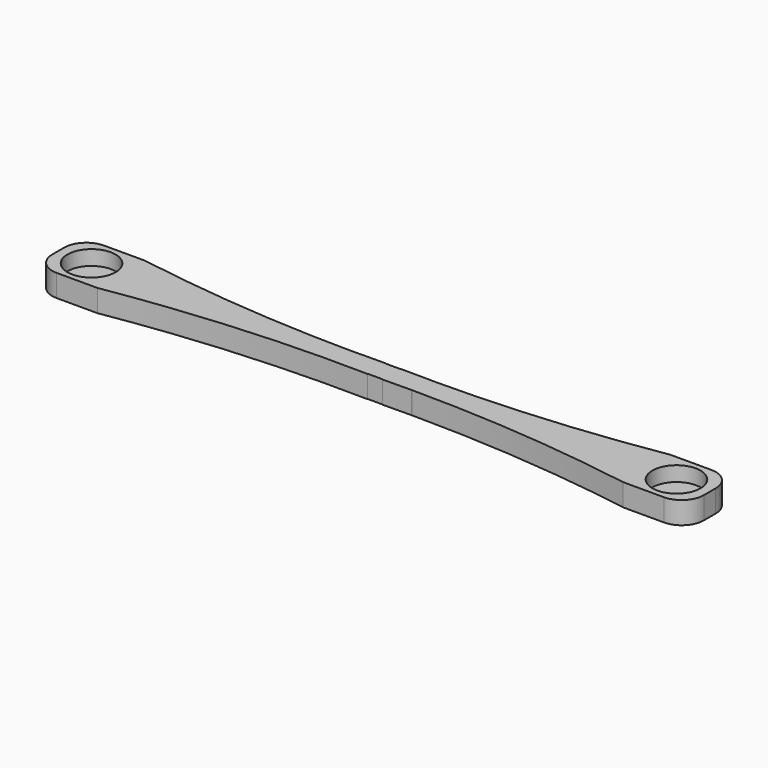
from build123d import *

# Parameters (mm, degrees)
BOX081_W                          = 90
BOX081_H                          = 9
BOX081_DEPTH                      = 4
BOX080_W                          = 10
BOX080_H                          = 3
BOX080_DEPTH                      = 4
BOX079_W                          = 40
BOX079_H                          = 10
BOX079_DEPTH                      = 10
CYLINDER143_R                     = 3.25
CYLINDER143_DEPTH                 = 3.5
CYLINDER144_R                     = 0.6
CYLINDER144_DEPTH                 = 9.5
CYLINDER142_R                     = 0.6
CYLINDER142_DEPTH                 = 9.5
CYLINDER141_R                     = 3.25
CYLINDER141_DEPTH                 = 3.5
PAD014_DEPTH                      = 4
FILLET078_R                       = 3
PART_MIRRORING003_PLACEMENT_ANGLE = 180
BOX078_W                          = 40
BOX078_H                          = 10
BOX078_DEPTH                      = 10
CYLINDER137_R                     = 3.25
CYLINDER137_DEPTH                 = 3.5
CYLINDER140_R                     = 0.6
CYLINDER140_DEPTH                 = 9.5
CYLINDER138_R                     = 0.6
CYLINDER138_DEPTH                 = 9.5
CYLINDER139_R                     = 3.25
CYLINDER139_DEPTH                 = 3.5
PAD013_DEPTH                      = 4
FILLET077_R                       = 3


with BuildPart() as obj1:
    # Box081 → Box081 (new body)
    with BuildSketch(Plane(origin=(-63, -38.5, -41), x_dir=(1, 0, 0), z_dir=(0, 0, 1))):
        with Locations((45, 4.5)):
            Rectangle(BOX081_W, BOX081_H)
    extrude(amount=BOX081_DEPTH)


with BuildPart() as obj2:
    # Box080 → Box080 (new body)
    with BuildSketch(Plane(origin=(-23, -35.5, -38), x_dir=(1, 0, 0), z_dir=(0, 0, 1))):
        with Locations((5, 1.5)):
            Rectangle(BOX080_W, BOX080_H)
    extrude(amount=BOX080_DEPTH)


with BuildPart() as obj3:
    # Box079 → Box079 (new body)
    with BuildSketch(Plane(origin=(-14, -72, -42), x_dir=(1, 0, 0), z_dir=(0, 0, 1))):
        with Locations((20, 5)):
            Rectangle(BOX079_W, BOX079_H)
    extrude(amount=BOX079_DEPTH)


with BuildPart() as zylinder143:
    # Cylinder143 → Cylinder143 (new body)
    with BuildSketch(Plane(origin=(-52.5, 23, -36), x_dir=(1, 0, 0), z_dir=(0, 0, 1))):
        Circle(CYLINDER143_R)
    extrude(amount=CYLINDER143_DEPTH)


with BuildPart() as zylinder144:
    # Cylinder144 → Cylinder144 (new body)
    with BuildSketch(Plane(origin=(16.5, 23, -39), x_dir=(1, 0, 0), z_dir=(0, 0, 1))):
        Circle(CYLINDER144_R)
    extrude(amount=CYLINDER144_DEPTH)


with BuildPart() as zylinder142:
    # Cylinder142 → Cylinder142 (new body)
    with BuildSketch(Plane(origin=(-52.5, 23, -39), x_dir=(1, 0, 0), z_dir=(0, 0, 1))):
        Circle(CYLINDER142_R)
    extrude(amount=CYLINDER142_DEPTH)


with BuildPart() as fusion089:
    # Cylinder141 → Cylinder141 (new body)
    with BuildSketch(Plane(origin=(16.5, 23, -36), x_dir=(1, 0, 0), z_dir=(0, 0, 1))):
        Circle(CYLINDER141_R)
    extrude(amount=CYLINDER141_DEPTH)

    # Fusion089: union Zylinder143, Zylinder144, Zylinder142
    add(zylinder143.part)
    add(zylinder144.part)
    add(zylinder142.part)


with BuildPart() as cut068:
    # Sketch014 → Pad014 (new body)
    with BuildSketch(Plane.XY):
        with BuildLine():
            add(Edge.make_bspline(
                [(-48.5, 19), (-18, 24), (12.5, 19)],
                knots=[0, 0, 0, 1, 1, 1], degree=2))
            Line((-48.5, 19), (-57, 19))
            Line((-57, 19), (-57, 27))
            Line((-57, 27), (-48.5, 27))
            add(Edge.make_bspline(
                [(-48.5, 27), (-18, 22), (12.5, 27)],
                knots=[0, 0, 0, 1, 1, 1], degree=2))
            Line((12.5, 27), (21, 27))
            Line((21, 27), (21, 19))
            Line((21, 19), (12.5, 19))
        make_face()
    extrude(amount=PAD014_DEPTH)


with BuildPart() as cut068_1:
    # Body005 placement: moved
    add(cut068.part.moved(Location((0, 0, -38))))

    # Cut069: cut Fusion089
    add(fusion089.part, mode=Mode.SUBTRACT)

    # Fillet078
    fillet078_edges = [cut068_1.edges().sort_by_distance(p)[0] for p in [
        (-57, 19, -36),
        (21, 19, -36),
        (-57, 27, -36),
        (21, 27, -36),
    ]]
    fillet(fillet078_edges, radius=FILLET078_R)


with BuildPart() as cut068_2:
    # Fillet078 placement: moved
    add(cut068_1.part.moved(Location((0, -90, 0))))

    # Cut068: cut obj3
    add(obj3.part, mode=Mode.SUBTRACT)


with BuildPart() as cut068_3:
    # Cut068 placement: moved
    add(cut068_2.part.moved(Location((-5, 35, 0))))


with BuildPart() as part_mirroring003:
    # Part__Mirroring003: instance of Cut068
    add(cut068_3.part.mirror(Plane(origin=(-40.5, -8e-06, -36), x_dir=(1, 0, 0), z_dir=(0, 1, 0))))


with BuildPart() as part_mirroring003_1:
    # Part__Mirroring003 placement: moved
    add(part_mirroring003.part.moved(Location((-36, 9, 0))).rotate(Axis((-36, 9, 0), (0, 0, 1)), PART_MIRRORING003_PLACEMENT_ANGLE))


with BuildPart() as obj4:
    # Box078 → Box078 (new body)
    with BuildSketch(Plane(origin=(-14, -72, -42), x_dir=(1, 0, 0), z_dir=(0, 0, 1))):
        with Locations((20, 5)):
            Rectangle(BOX078_W, BOX078_H)
    extrude(amount=BOX078_DEPTH)


with BuildPart() as zylinder137:
    # Cylinder137 → Cylinder137 (new body)
    with BuildSketch(Plane(origin=(-52.5, 23, -36), x_dir=(1, 0, 0), z_dir=(0, 0, 1))):
        Circle(CYLINDER137_R)
    extrude(amount=CYLINDER137_DEPTH)


with BuildPart() as zylinder140:
    # Cylinder140 → Cylinder140 (new body)
    with BuildSketch(Plane(origin=(16.5, 23, -39), x_dir=(1, 0, 0), z_dir=(0, 0, 1))):
        Circle(CYLINDER140_R)
    extrude(amount=CYLINDER140_DEPTH)


with BuildPart() as zylinder138:
    # Cylinder138 → Cylinder138 (new body)
    with BuildSketch(Plane(origin=(-52.5, 23, -39), x_dir=(1, 0, 0), z_dir=(0, 0, 1))):
        Circle(CYLINDER138_R)
    extrude(amount=CYLINDER138_DEPTH)


with BuildPart() as fusion088:
    # Cylinder139 → Cylinder139 (new body)
    with BuildSketch(Plane(origin=(16.5, 23, -36), x_dir=(1, 0, 0), z_dir=(0, 0, 1))):
        Circle(CYLINDER139_R)
    extrude(amount=CYLINDER139_DEPTH)

    # Fusion088: union Zylinder137, Zylinder140, Zylinder138
    add(zylinder137.part)
    add(zylinder140.part)
    add(zylinder138.part)


with BuildPart() as cut070:
    # Sketch013 → Pad013 (new body)
    with BuildSketch(Plane.XY):
        with BuildLine():
            add(Edge.make_bspline(
                [(-48.5, 19), (-18, 24), (12.5, 19)],
                knots=[0, 0, 0, 1, 1, 1], degree=2))
            Line((-48.5, 19), (-57, 19))
            Line((-57, 19), (-57, 27))
            Line((-57, 27), (-48.5, 27))
            add(Edge.make_bspline(
                [(-48.5, 27), (-18, 22), (12.5, 27)],
                knots=[0, 0, 0, 1, 1, 1], degree=2))
            Line((12.5, 27), (21, 27))
            Line((21, 27), (21, 19))
            Line((21, 19), (12.5, 19))
        make_face()
    extrude(amount=PAD013_DEPTH)


with BuildPart() as cut070_1:
    # Body004 placement: moved
    add(cut070.part.moved(Location((0, 0, -38))))

    # Cut066: cut Fusion088
    add(fusion088.part, mode=Mode.SUBTRACT)

    # Fillet077
    fillet077_edges = [cut070_1.edges().sort_by_distance(p)[0] for p in [
        (-57, 19, -36),
        (21, 19, -36),
        (-57, 27, -36),
        (21, 27, -36),
    ]]
    fillet(fillet077_edges, radius=FILLET077_R)


with BuildPart() as cut070_2:
    # Fillet077 placement: moved
    add(cut070_1.part.moved(Location((0, -90, 0))))

    # Cut067: cut obj4
    add(obj4.part, mode=Mode.SUBTRACT)


with BuildPart() as cut070_3:
    # Cut067 placement: moved
    add(cut070_2.part.moved(Location((-5, 44, 0))))

    # Fusion090: union Part__Mirroring003
    add(part_mirroring003_1.part)


with BuildPart() as cut070_4:
    # Fusion090 placement: moved
    add(cut070_3.part.moved(Location((0, -11, 0))))

    # Fusion091: union obj2
    add(obj2.part)

    # Cut070: cut obj1
    add(obj1.part, mode=Mode.SUBTRACT)


solid = cut070_4.part
